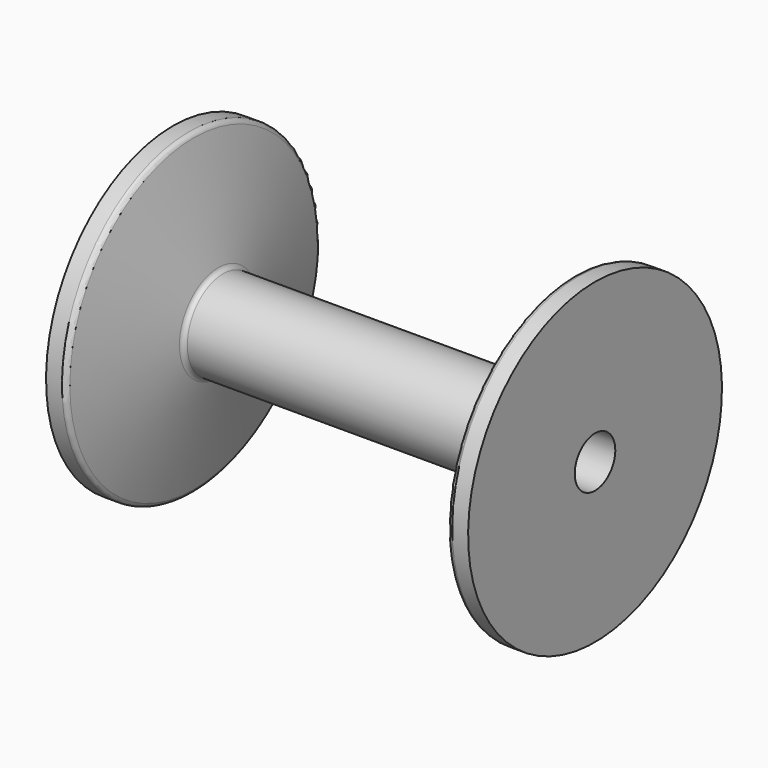
from build123d import *


with BuildPart() as f1:
    # F0 (on Front) → F1 (revolve)
    with BuildSketch(Plane.XZ):
        with BuildLine():
            Line((0, 5.1), (42.5, 5.1))
            Line((42.5, 5.1), (42.5, 31.95))
            Line((42.5, 31.95), (39.295436, 31.95))
            ThreePointArc((39.295436, 31.95), (38.672921, 31.732608), (38.321066, 31.174951))
            Line((38.321066, 31.174951), (33.380509, 9.775049))
            ThreePointArc((33.380509, 9.775049), (33.028654, 9.217392), (32.406139, 9))
            Line((32.406139, 9), (0, 9))
            Line((0, 9), (-32.406139, 9))
            ThreePointArc((-32.406139, 9), (-33.028654, 9.217392), (-33.380509, 9.775049))
            Line((-33.380509, 9.775049), (-38.321066, 31.174951))
            ThreePointArc((-38.321066, 31.174951), (-38.672921, 31.732608), (-39.295436, 31.95))
            Line((-39.295436, 31.95), (-42.5, 31.95))
            Line((-42.5, 31.95), (-42.5, 5.1))
            Line((-42.5, 5.1), (0, 5.1))
        make_face()
    revolve(axis=Axis((21.25, 0, 0), (1, 0, 0)))


solid = f1.part
